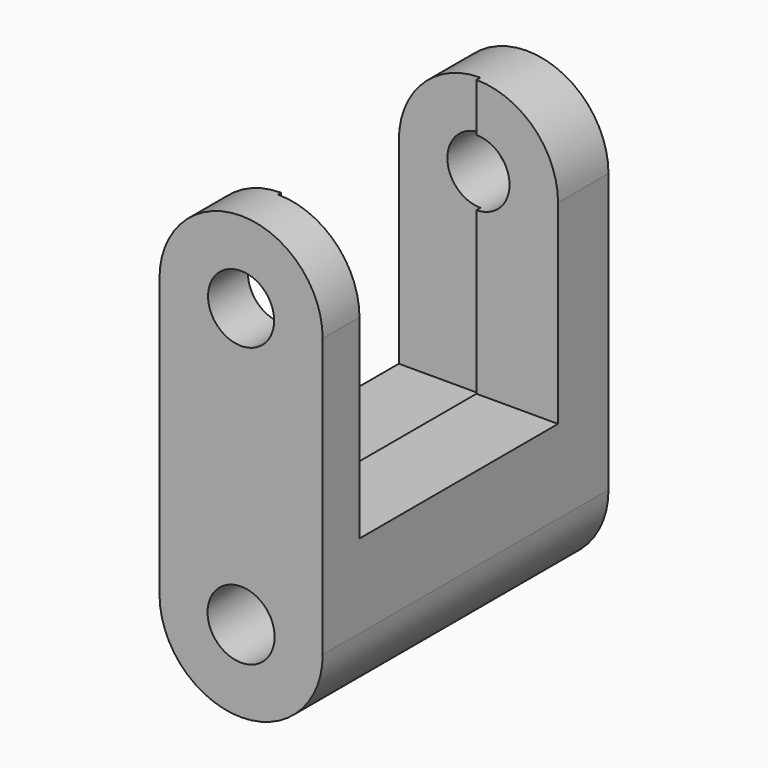
from build123d import *

# Parameters (mm, degrees)
F0_R     = 11.712963
F0_R_2   = 11.53605
F1_DEPTH = 124.714
F2_W     = 87.013735
F2_H     = 97.314427
F3_DEPTH = 28.480272
F4_W     = 86.64881
F4_H     = 97.130336
F5_DEPTH = 28.480272


with BuildPart() as f1:
    # F0 (on Front) → F1 (new body)
    with BuildSketch(Plane.XZ):
        with BuildLine():
            ThreePointArc((-28.479272, -48.582289), (0, -77.061562), (28.479272, -48.582289))
            Line((28.479272, -48.582289), (28.479272, 48.582289))
            ThreePointArc((28.479272, 48.582289), (0, 77.061562), (-28.479272, 48.582289))
            Line((-28.479272, 48.582289), (-28.479272, -48.582289))
        make_face()
        with Locations((0, -48.582289)):
            Circle(F0_R, mode=Mode.SUBTRACT)
        with Locations((0, 48.582289)):
            Circle(F0_R_2, mode=Mode.SUBTRACT)
    extrude(amount=-F1_DEPTH)

    # F2 (on Right) → F3 (cut, through all)
    with BuildSketch(Plane.YZ):
        with Locations((60.919331, 28.530205)):
            Rectangle(F2_W, F2_H)
    extrude(amount=-F3_DEPTH, mode=Mode.SUBTRACT)

    # F4 (on Right) → F5 (cut, through all)
    with BuildSketch(Plane.YZ):
        with Locations((59.381513, 29.164385)):
            Rectangle(F4_W, F4_H)
    extrude(amount=F5_DEPTH, mode=Mode.SUBTRACT)


solid = f1.part
